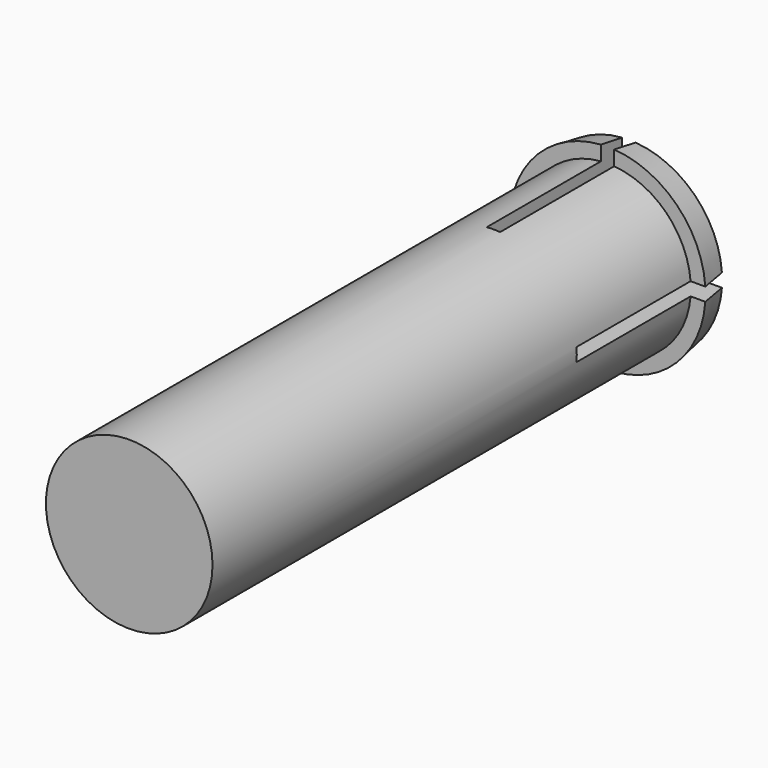
from build123d import *

# Parameters (mm, degrees)
F0_R     = 12.5
F0_R_2   = 9.525
F1_DEPTH = 81.026
F2_R     = 14
F2_R_2   = 9.525
F3_DEPTH = 4
F3_TAPER = -10
F4_W     = 16.5
F4_H     = 2
F4_W_2   = 2
F4_H_2   = 16.5
F5_DEPTH = 25.4
F6_R     = 12.5
F7_DEPTH = 12.7


with BuildPart() as f1:
    # F0 (on Front) → F1 (new body)
    with BuildSketch(Plane.XZ):
        Circle(F0_R)
        Circle(F0_R_2, mode=Mode.SUBTRACT)
    extrude(amount=F1_DEPTH)

    # F2 (on face) → F3 (join)
    with BuildSketch(Plane(origin=(0, 0, 0), x_dir=(-1, 0, 0), z_dir=(0, 1, 0))):
        Circle(F2_R)
        Circle(F2_R_2, mode=Mode.SUBTRACT)
    extrude(amount=-F3_DEPTH, taper=F3_TAPER)

    # F4 (on face) → F5 (cut)
    with BuildSketch(Plane.XZ):
        with Locations((-9.25, 0)):
            Rectangle(F4_W, F4_H)
        with Locations((0, 9.25)):
            Rectangle(F4_W_2, F4_H_2)
        Rectangle(F4_W_2, F4_H)
        with Locations((9.25, 0)):
            Rectangle(F4_W, F4_H)
        with Locations((0, -9.25)):
            Rectangle(F4_W_2, F4_H_2)
    extrude(amount=F5_DEPTH, mode=Mode.SUBTRACT)

    # F6 (on face) → F7 (join)
    with BuildSketch(Plane.XZ.offset(81.026)):
        Circle(F6_R)
    extrude(amount=F7_DEPTH)


solid = f1.part
